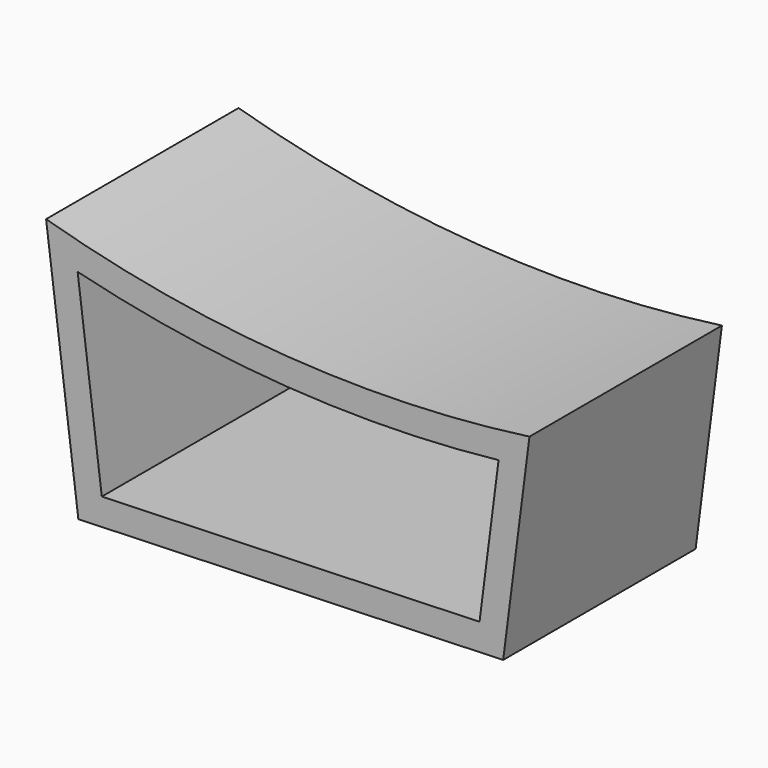
from build123d import *

# Parameters (mm, degrees)
F1_DEPTH = 45


with BuildPart() as f1:
    # F0 (on Front) → F1 (new body, symmetric)
    with BuildSketch(Plane.XZ):
        with BuildLine():
            ThreePointArc((180.82611, 75.648568), (89.748734, 72.65326), (0.006644, 88.477845))
            Line((0.006644, 88.477845), (11.444267, -1.436133))
            Line((11.444267, -1.436133), (12.077959, -6.417742))
            Line((12.077959, -6.417742), (170.993762, -1.105327))
            Line((170.993762, -1.105327), (180.82611, 75.648568))
        make_face()
        with BuildLine():
            ThreePointArc((11.805598, 74.969305), (90.061277, 62.607112), (169.272227, 64.156456))
            Line((169.272227, 64.156456), (162.155936, 8.604818))
            Line((162.155936, 8.604818), (20.848473, 3.881034))
            Line((20.848473, 3.881034), (11.805598, 74.969305))
        make_face(mode=Mode.SUBTRACT)
    extrude(amount=F1_DEPTH, both=True)


solid = f1.part
